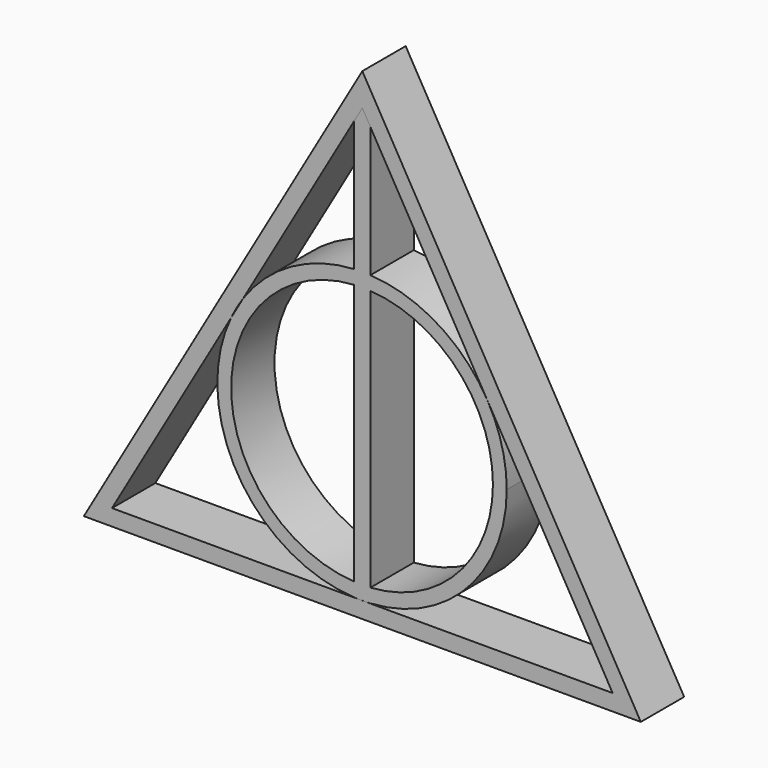
from build123d import *

# Parameters (mm, degrees)
F1_DEPTH = 10
F2_DEPTH = 10


with BuildPart() as f1:
    # F0 (on Front) → F1 (new body)
    with BuildSketch(Plane.XZ):
        with BuildLine():
            Line((0, 80), (-1.5, 77.4019237886))
            Line((-1.5, 77.4019237886), (-1.5, 53.3533360125))
            ThreePointArc((-1.5, 53.3533360125), (8.45852e-05, 53.3924952615), (1.5, 53.3473182989))
            Line((1.5, 53.3473182989), (1.5, 77.4019237886))
            Line((1.5, 77.4019237886), (0, 80))
        make_face()
        with BuildLine():
            ThreePointArc((1.5, 53.3473182989), (8.45852e-05, 53.3924952615), (-1.5, 53.3533360125))
            Line((-1.5, 53.3533360125), (-1.5, 50.7991884344))
            ThreePointArc((-1.5, 50.7991884344), (0.0001034456, 50.8424895478), (1.5, 50.7925329659))
            Line((1.5, 50.7925329659), (1.5, 53.3473182989))
        make_face()
        with BuildLine():
            Line((-1.5, 50.7991884344), (-1.5, 2.5857712335))
            ThreePointArc((-1.5, 2.5857712335), (0.0001034456, 2.54247012), (1.5, 2.5924267019))
            Line((1.5, 2.5924267019), (1.5, 50.7925329659))
            ThreePointArc((1.5, 50.7925329659), (0.0001034456, 50.8424895478), (-1.5, 50.7991884344))
        make_face()
        with BuildLine():
            ThreePointArc((-1.5, 0.0316236553), (-1.0951381107, 0.0127379637), (-0.6900361938, 0))
            Line((-0.6900361938, 0), (0.5830900001, 0))
            ThreePointArc((0.5830900001, 0), (1.0417067289, 0.014881115), (1.5, 0.0376413689))
            Line((1.5, 0.0376413689), (1.5, 2.5924267019))
            ThreePointArc((1.5, 2.5924267019), (0.0001034456, 2.54247012), (-1.5, 2.5857712335))
            Line((-1.5, 2.5857712335), (-1.5, 0.0316236553))
        make_face()
        with BuildLine():
            Line((1.5, 2.5924267019), (1.5, 0.0376413689))
            ThreePointArc((1.5, 0.0376413689), (19.3677978626, 8.3701457419), (26.6465960465, 26.6924798339))
            ThreePointArc((26.6465960465, 26.6924798339), (25.7368133567, 33.6029658447), (23.0694654669, 40.0425137079))
            ThreePointArc((23.0694654669, 40.0425137079), (13.9638654313, 49.4170901242), (1.5, 53.3473182989))
            Line((1.5, 53.3473182989), (1.5, 50.7925329659))
            ThreePointArc((1.5, 50.7925329659), (17.5638808805, 43.2107932606), (24.0965960465, 26.6924798339))
            ThreePointArc((24.0965960465, 26.6924798339), (17.5638808805, 10.1741664072), (1.5, 2.5924267019))
        make_face()
        with BuildLine():
            Line((-21.9852063006, 41.9205056724), (-24.2071969244, 38.0719050181))
            ThreePointArc((-24.2071969244, 38.0719050181), (-22.9796363369, 13.0072786534), (-1.5, 0.0316236553))
            Line((-1.5, 0.0316236553), (-1.5, 2.5857712335))
            ThreePointArc((-1.5, 2.5857712335), (-24.2035422402, 26.6924798339), (-1.5, 50.7991884344))
            Line((-1.5, 50.7991884344), (-1.5, 53.3533360125))
            ThreePointArc((-1.5, 53.3533360125), (-13.0655122838, 50.0072933321), (-21.9852063006, 41.9205056724))
        make_face()
    extrude(amount=-F1_DEPTH)


with BuildPart() as f2:
    # F0 (on Front) → F2 (new body)
    with BuildSketch(Plane.XZ):
        Polygon((51.3841739579, -3), (0, 86), (-51.3841739579, -3), align=None)
        with BuildLine():
            Line((-1.5, 0), (-46.1880215352, 0))
            Line((-46.1880215352, 0), (-24.2071969244, 38.0719050181))
            ThreePointArc((-24.2071969244, 38.0719050181), (-23.1764112578, 40.0425144056), (-21.9852063006, 41.9205056724))
            Line((-21.9852063006, 41.9205056724), (-1.5, 77.4019237886))
            Line((-1.5, 77.4019237886), (0, 80))
            Line((0, 80), (1.5, 77.4019237886))
            Line((1.5, 77.4019237886), (23.0694654669, 40.0425137079))
            Line((23.0694654669, 40.0425137079), (46.1880215352, 0))
            Line((46.1880215352, 0), (1.5, 0))
            Line((1.5, 0), (0.5830900001, 0))
            ThreePointArc((0.5830900001, 0), (-0.0534730969, -0.0075893094), (-0.6900361938, 0))
            Line((-0.6900361938, 0), (-1.5, 0))
        make_face(mode=Mode.SUBTRACT)
    extrude(amount=-F2_DEPTH)


solid = Compound([f1.part, f2.part])
